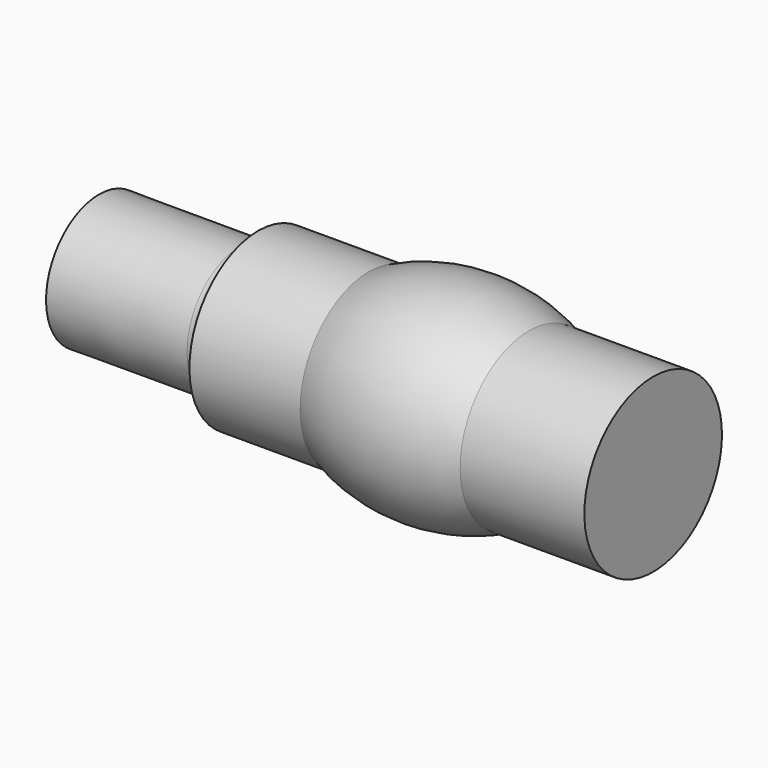
from build123d import *


with BuildPart() as f1:
    # F0 (on Front) → F1 (revolve)
    with BuildSketch(Plane.XZ):
        with BuildLine():
            Line((-38.376641, 15.662292), (-71.291894, 15.662292))
            ThreePointArc((-71.291894, 15.662292), (-72.714699, 11.505924), (-76.738298, 9.742283))
            Line((-76.738298, 9.742283), (-118.652529, 9.77737))
            Line((-118.652529, 9.77737), (-118.652529, -4.93934))
            Line((-118.652529, -4.93934), (-76.738298, -4.93934))
            ThreePointArc((-76.738298, -4.93934), (-72.144775, -5.377298), (-71.291894, -9.912147))
            Line((-71.291894, -9.912147), (-38.376641, -9.912147))
            ThreePointArc((-38.376641, -9.912147), (-14.578205, -16.151245), (9.22023, -9.912147))
            Line((9.22023, -9.912147), (46.161082, -9.912147))
            Line((46.161082, -9.912147), (46.161082, 15.662292))
            Line((46.161082, 15.662292), (9.22023, 15.662292))
            ThreePointArc((9.22023, 15.662292), (-14.578205, 20.9462), (-38.376641, 15.662292))
        make_face()
    revolve(axis=Axis((-54.834267, 0, -9.912147), (1, 0, 0)))


solid = f1.part
